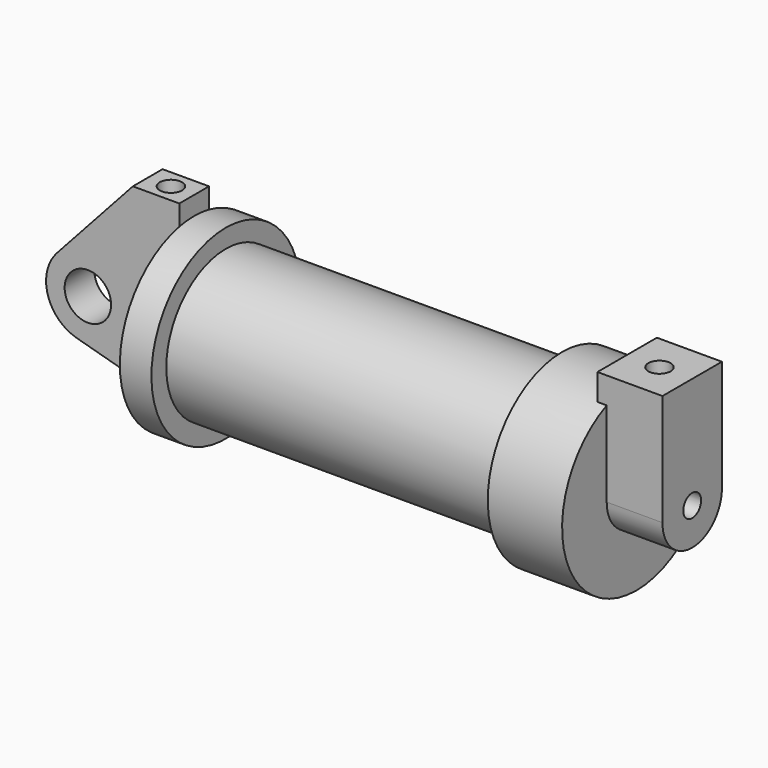
from build123d import *

# Parameters (mm, degrees)
F0_R          = 3.175
F0_W          = 5.842
F0_H          = 12.7
F2_DEPTH      = 2.54
F3_R          = 1.524
F4_DEPTH      = 7.62
F4_DEPTH_BACK = 1.27
F5_R          = 1.524
F6_DEPTH      = 17.78


with BuildPart() as f1:
    # F0 (on Front) → F1 (revolve)
    with BuildSketch(Plane.XZ):
        Polygon((5.842, 12.7), (5.842, 0), (66.294, 0), (66.294, 12.7), (56.134, 12.7), (56.134, 10.16), (10.16, 10.16), (10.16, 12.7), align=None)
    revolve(axis=Axis((33.147, 0, 0), (-1, 0, 0)))

    # F0 (on Front) → F2 (join, symmetric)
    with BuildSketch(Plane.XZ):
        with BuildLine():
            Line((5.842, 0), (0, 0))
            Line((0, 0), (-0.9398, 0))
            ThreePointArc((-0.9398, 0), (-3.1957909266, -4.5493385486), (-8.1826630726, -5.5069827884))
            Line((-8.1826630726, -5.5069827884), (5.842, -9.398))
            Line((5.842, -9.398), (5.842, 0))
        make_face()
        with BuildLine():
            ThreePointArc((-8.1826630726, -5.5069827884), (-3.1957909266, -4.5493385486), (-0.9398, 0))
            ThreePointArc((-0.9398, 0), (-4.5919612295, 5.3297205562), (-10.8806298187, 3.8475430269))
            ThreePointArc((-10.8806298187, 3.8475430269), (-12.1459778134, -1.5837270034), (-8.1826630726, -5.5069827884))
        make_face()
        with Locations((-6.6548, 0)):
            Circle(F0_R, mode=Mode.SUBTRACT)
        with BuildLine():
            Line((-0.9398, 0), (0, 0))
            Line((0, 0), (0, 12.7))
            Line((0, 12.7), (5.842, 12.7))
            Line((5.842, 12.7), (5.842, 15.24))
            Line((5.842, 15.24), (-0.508, 15.24))
            Line((-0.508, 15.24), (-10.8806298187, 3.8475430269))
            ThreePointArc((-10.8806298187, 3.8475430269), (-4.5919612295, 5.3297205562), (-0.9398, 0))
        make_face()
        with Locations((2.921, 6.35)):
            Rectangle(F0_W, F0_H)
    extrude(amount=F2_DEPTH, both=True)

    # F3 (on face) → F4 (join, two sides)
    with BuildSketch(Plane.YZ.offset(66.294)) as f4_sk:
        with BuildLine():
            ThreePointArc((-5.08, 0), (0, -5.08), (5.08, 0))
            ThreePointArc((5.08, 0), (0, 5.08), (-5.08, 0))
        make_face()
        Circle(F3_R, mode=Mode.SUBTRACT)
        with BuildLine():
            ThreePointArc((-5.08, 0), (0, 5.08), (5.08, 0))
            Line((5.08, 0), (5.08, 11.6397422652))
            ThreePointArc((5.08, 11.6397422652), (0, 12.7), (-5.08, 11.6397422652))
            Line((-5.08, 11.6397422652), (-5.08, 0))
        make_face()
        with BuildLine():
            ThreePointArc((-5.08, 11.6397422652), (0, 12.7), (5.08, 11.6397422652))
            Line((5.08, 11.6397422652), (5.08, 15.24))
            Line((5.08, 15.24), (-5.08, 15.24))
            Line((-5.08, 15.24), (-5.08, 11.6397422652))
        make_face()
    extrude(amount=F4_DEPTH)
    extrude(f4_sk.sketch, amount=-F4_DEPTH_BACK)

    # F5 (on face) → F6 (cut)
    with BuildSketch(Plane.XY.offset(15.24)):
        with Locations((2.667, 0)):
            Circle(F5_R)
        with Locations((69.5054605603, -0.0776998204)):
            Circle(F5_R)
    extrude(amount=-F6_DEPTH, mode=Mode.SUBTRACT)


solid = f1.part
